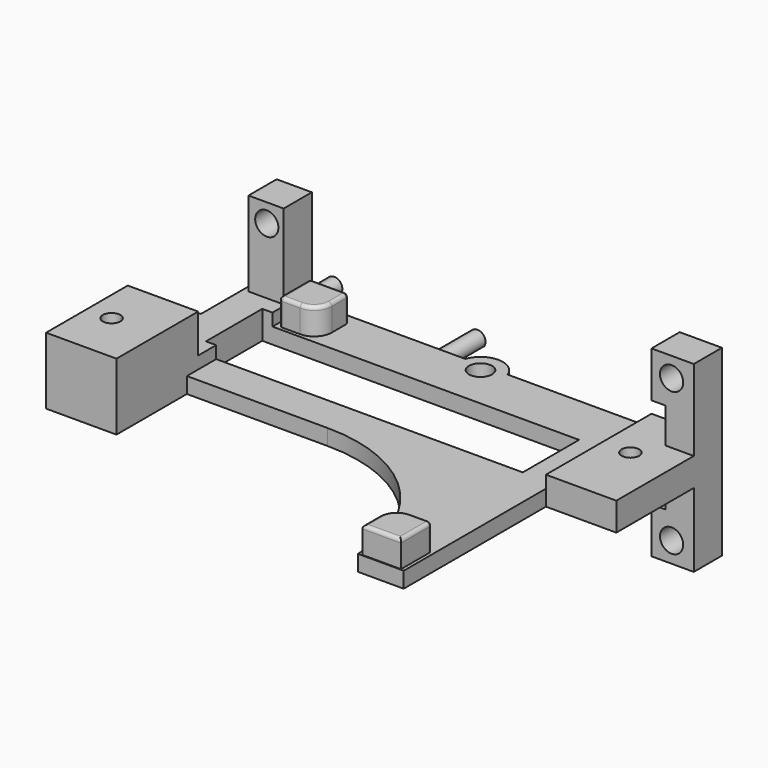
from build123d import *

# Parameters (mm, degrees)
SKETCH021_R      = 1.65
EXTRUDE021_DEPTH = 5
EXTRUDE001_DEPTH = 4
FILLET003_R      = 0.5
BOX005_W         = 48
BOX005_H         = 47
BOX005_DEPTH     = 10
EXTRUDE037_DEPTH = 6
SKETCH038_W      = 10
SKETCH038_H      = 14.5
SKETCH038_R      = 1.25
EXTRUDE038_DEPTH = 4
SKETCH039_W      = 5
SKETCH039_H      = 16
SKETCH039_R      = 1.65
EXTRUDE039_DEPTH = 5
EXTRUDE040_DEPTH = 7
SKETCH020_R      = 1.65
SKETCH020_R_2    = 1.25
SKETCH020_W      = 45
SKETCH020_H      = 10
EXTRUDE036_DEPTH = 4


with BuildPart() as gpshold:
    # Sketch021 → Extrude021 (new body)
    with BuildSketch(Plane.XZ):
        Polygon((65, 28.5), (71, 28.5), (71, 2.5), (65, 2.5), (65, 9), (67, 9), (67, 22), (65, 22), align=None)
        with Locations((67.85, 25.7)):
            Circle(SKETCH021_R, mode=Mode.SUBTRACT)
        with Locations((67.85, 5.4)):
            Circle(SKETCH021_R, mode=Mode.SUBTRACT)
    extrude(amount=EXTRUDE021_DEPTH)


with BuildPart() as gpshold_1:
    # Extrude021 placement: moved
    add(gpshold.part.moved(Location((0, 78.75, 0))))


with BuildPart() as obj1:
    # Sketch001 → Extrude001 (new body)
    with BuildSketch(Plane.XY):
        with BuildLine():
            Line((19.03, 74.44), (19.03, 77.44))
            Line((19.03, 77.44), (13.53, 77.44))
            Line((13.53, 71.94), (13.53, 77.44))
            Line((16.53, 71.94), (13.53, 71.94))
            ThreePointArc((16.53, 71.94), (18.297767, 72.672233), (19.03, 74.44))
        make_face()
        with BuildLine():
            Line((60.53, 34.86), (55.03, 34.86))
            Line((55.03, 34.86), (55.03, 37.86))
            ThreePointArc((57.53, 40.36), (55.762233, 39.627767), (55.03, 37.86))
            Line((60.53, 40.36), (57.53, 40.36))
            Line((60.53, 34.86), (60.53, 40.36))
        make_face()
    extrude(amount=EXTRUDE001_DEPTH)


with BuildPart() as obj1_1:
    # Extrude001 placement: moved
    add(obj1.part.moved(Location((0, 0, 2))))

    # Fillet003
    fillet003_edges = [obj1_1.edges().sort_by_distance(p)[0] for p in [
        (57.78, 34.86, 6),
        (55.03, 36.36, 6),
        (55.762233, 39.627767, 6),
        (60.53, 40.36, 4),
        (59.03, 40.36, 6),
        (60.53, 37.61, 6),
        (18.297767, 72.672233, 6),
        (19.03, 77.44, 4),
        (19.03, 75.94, 6),
        (13.53, 77.44, 4),
        (16.28, 77.44, 6),
        (13.53, 71.94, 4),
        (13.53, 74.69, 6),
        (15.03, 71.94, 6),
    ]]
    fillet(fillet003_edges, radius=FILLET003_R)


with BuildPart() as obj1_2:
    # Fillet003 placement: moved
    add(obj1_1.part.moved(Location((0, 0, 13))))


with BuildPart() as obj2:
    # Box005 → Box005 (new body)
    with BuildSketch(Plane(origin=(13, 34, 15.25), x_dir=(1, 0, 0), z_dir=(0, 0, 1))):
        with Locations((24, 23.5)):
            Rectangle(BOX005_W, BOX005_H)
    extrude(amount=BOX005_DEPTH)


with BuildPart() as obj3:
    # Sketch037 → Extrude037 (new body)
    with BuildSketch(Plane.XY.offset(17)):
        with BuildLine():
            Line((3, 58.25), (13, 58.25))
            Line((13, 58.25), (13, 43.75))
            Line((13, 43.75), (3, 43.75))
            Line((3, 43.75), (3, 45.75))
            Line((3, 45.75), (6.5, 45.75))
            ThreePointArc((6.5, 45.75), (11.75, 51), (6.5, 56.25))
            Line((3, 56.25), (6.5, 56.25))
            Line((3, 58.25), (3, 56.25))
        make_face()
    extrude(amount=EXTRUDE037_DEPTH)


with BuildPart() as obj3_1:
    # Extrude037 placement: moved
    add(obj3.part.moved(Location((0, 0, -4))))


with BuildPart() as obj4:
    # Sketch038 → Extrude038 (new body)
    with BuildSketch(Plane.XY.offset(17)):
        with Locations((8, 51)):
            Rectangle(SKETCH038_W, SKETCH038_H)
        with Locations((6.5, 51)):
            Circle(SKETCH038_R, mode=Mode.SUBTRACT)
    extrude(amount=EXTRUDE038_DEPTH)


with BuildPart() as obj4_1:
    # Extrude038 placement: moved
    add(obj4.part.moved(Location((0, 0, 1.5))))


with BuildPart() as obj5:
    # Sketch039 → Extrude039 (new body)
    with BuildSketch(Plane.XZ.offset(-78.75)):
        with Locations((10.25, 21)):
            Rectangle(SKETCH039_W, SKETCH039_H)
        with Locations((10.35, 26.35)):
            Circle(SKETCH039_R, mode=Mode.SUBTRACT)
    extrude(amount=EXTRUDE039_DEPTH)


with BuildPart() as obj6:
    # Sketch040 → Extrude040 (new body)
    with BuildSketch(Plane.XZ.offset(-78.75)):
        with BuildLine():
            ThreePointArc((11.321071, 13.05), (10.34, 14.8), (9.358929, 13.05))
            Line((9.358929, 13.05), (11.321071, 13.05))
        make_face()
        with BuildLine():
            ThreePointArc((31.651071, 13.05), (30.67, 14.8), (29.688929, 13.05))
            Line((29.688929, 13.05), (31.651071, 13.05))
        make_face()
    extrude(amount=EXTRUDE040_DEPTH)


with BuildPart() as obj6_1:
    # Extrude040 placement: moved
    add(obj6.part.moved(Location((0, 7, 0))))


with BuildPart() as sensorhold005:
    # Sketch020 → Extrude036 (new body)
    with BuildSketch(Plane.XY):
        with BuildLine():
            Line((71, 78.75), (71, 60))
            Line((61, 60), (71, 60))
            Line((61, 34.75), (61, 60))
            Line((61, 34.75), (61, 60))
            Line((61, 34.75), (61, 60))
            Line((54.5, 34.75), (61, 34.75))
            ThreePointArc((54.5, 34.75), (48.202796, 49.952796), (33, 56.25))
            Line((3, 56.25), (33, 56.25))
            Line((3, 56.25), (3, 66.25))
            Line((3, 66.25), (7, 66.25))
            Line((7, 66.25), (7, 78.75))
            Line((7, 78.75), (34.55, 78.75))
            ThreePointArc((40.55, 78.75), (37.55, 80.878443), (34.55, 78.75))
            Line((40.55, 78.75), (71, 78.75))
        make_face()
        with Locations((5.55, 61.45)):
            Circle(SKETCH020_R, mode=Mode.SUBTRACT)
        with Locations((37.55, 77.7)):
            Circle(SKETCH020_R, mode=Mode.SUBTRACT)
        with Locations((65, 70)):
            Circle(SKETCH020_R_2, mode=Mode.SUBTRACT)
        with Locations((34.05, 66.45)):
            Rectangle(SKETCH020_W, SKETCH020_H, mode=Mode.SUBTRACT)
    extrude(amount=EXTRUDE036_DEPTH)


with BuildPart() as sensorhold005_1:
    # Extrude036 placement: moved
    add(sensorhold005.part.moved(Location((0, 0, 13))))

    # Fusion034: union obj3, obj4, obj5, obj6
    add(obj3_1.part)
    add(obj4_1.part)
    add(obj5.part)
    add(obj6_1.part)

    # Cut016: cut obj2
    add(obj2.part, mode=Mode.SUBTRACT)

    # Fusion035: union obj1
    add(obj1_2.part)

    # Fusion036: union gpsHold
    add(gpshold_1.part)


solid = sensorhold005_1.part
